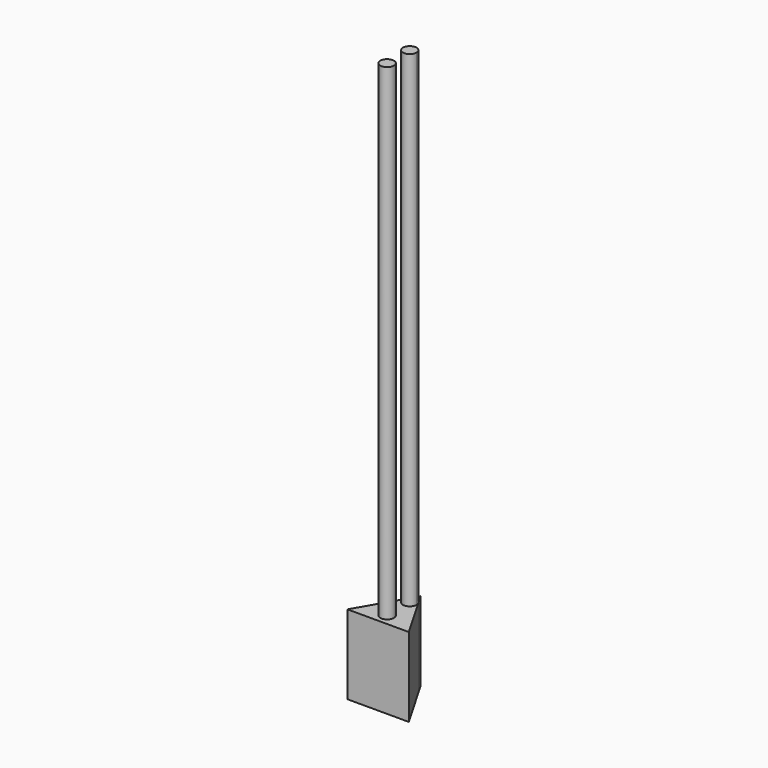
from build123d import *

# Parameters (mm, degrees)
F0_R     = 0.6
F1_DEPTH = 7
F2_DEPTH = 50


with BuildPart() as f1:
    # F0 (on Top) → F1 (new body)
    with BuildSketch(Plane.XY):
        with BuildLine():
            Line((-0.519615, -0.9), (-2.713546, -4.7))
            Line((-2.713546, -4.7), (2.713546, -4.7))
            Line((2.713546, -4.7), (0.519615, -0.9))
            ThreePointArc((0.519615, -0.9), (0.579555, -1.044709), (0.6, -1.2))
            ThreePointArc((0.6, -1.2), (-0.155291, -1.779555), (-0.519615, -0.9))
        make_face()
        with Locations((0, -3.7)):
            Circle(F0_R, mode=Mode.SUBTRACT)
        with BuildLine():
            Line((0, 0), (-0.519615, -0.9))
            ThreePointArc((-0.519615, -0.9), (0, -0.6), (0.519615, -0.9))
            Line((0.519615, -0.9), (0, 0))
        make_face()
        with BuildLine():
            ThreePointArc((0.519615, -0.9), (0, -0.6), (-0.519615, -0.9))
            ThreePointArc((-0.519615, -0.9), (-0.155291, -1.779555), (0.6, -1.2))
            ThreePointArc((0.6, -1.2), (0.579555, -1.044709), (0.519615, -0.9))
        make_face()
        with Locations((0, -3.7)):
            Circle(F0_R)
    extrude(amount=F1_DEPTH)

    # F0 (on Top) → F2 (join)
    with BuildSketch(Plane.XY):
        with BuildLine():
            ThreePointArc((0.519615, -0.9), (0, -0.6), (-0.519615, -0.9))
            ThreePointArc((-0.519615, -0.9), (-0.155291, -1.779555), (0.6, -1.2))
            ThreePointArc((0.6, -1.2), (0.579555, -1.044709), (0.519615, -0.9))
        make_face()
        with Locations((0, -3.7)):
            Circle(F0_R)
    extrude(amount=F2_DEPTH)


solid = f1.part
